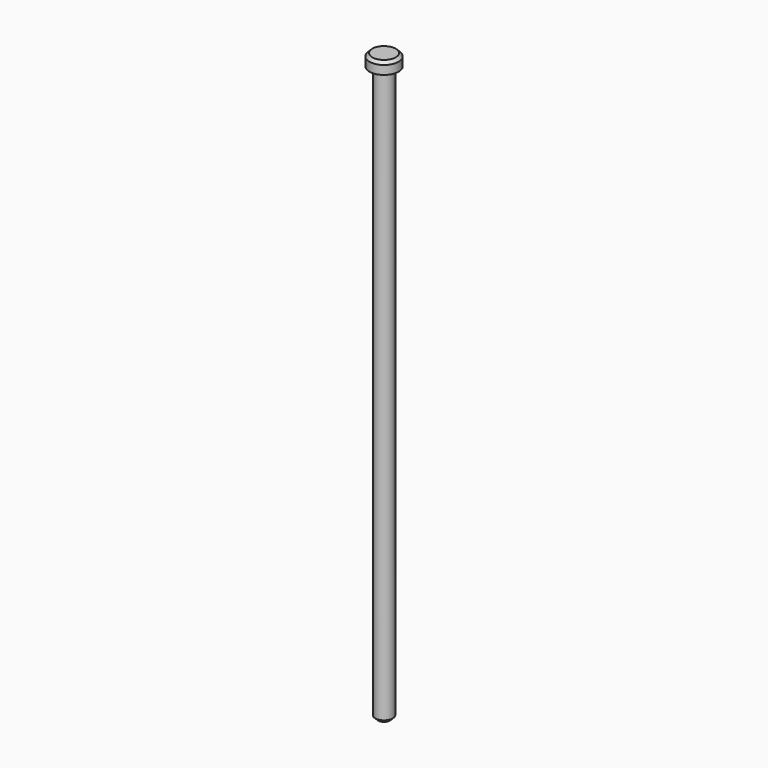
from build123d import *

# Parameters (mm, degrees)
F0_W     = 1.5
F0_H     = 98
F2_SIZE  = 0.5
F3_R     = 2.5
F3_R_2   = 1.5
F4_DEPTH = 2
F5_SIZE  = 0.5


with BuildPart() as f1:
    # F0 (on Right) → F1 (revolve)
    with BuildSketch(Plane.YZ):
        with Locations((-0.75, 0)):
            Rectangle(F0_W, F0_H)
    revolve(axis=Axis((0, 0, 0), (0, 0, -1)))

    # F2
    f2_edges = [f1.edges().sort_by_distance(p)[0] for p in [
        (0, 1.5, -49),
    ]]
    chamfer(f2_edges, length=F2_SIZE)

    # F3 (on face) → F4 (join)
    with BuildSketch(Plane.XY.offset(49)):
        Circle(F3_R)
        Circle(F3_R_2, mode=Mode.SUBTRACT)
        Circle(F3_R_2)
    extrude(amount=F4_DEPTH)

    # F5
    f5_edges = [f1.edges().sort_by_distance(p)[0] for p in [
        (-2.5, 0, 51),
    ]]
    chamfer(f5_edges, length=F5_SIZE)


solid = f1.part
